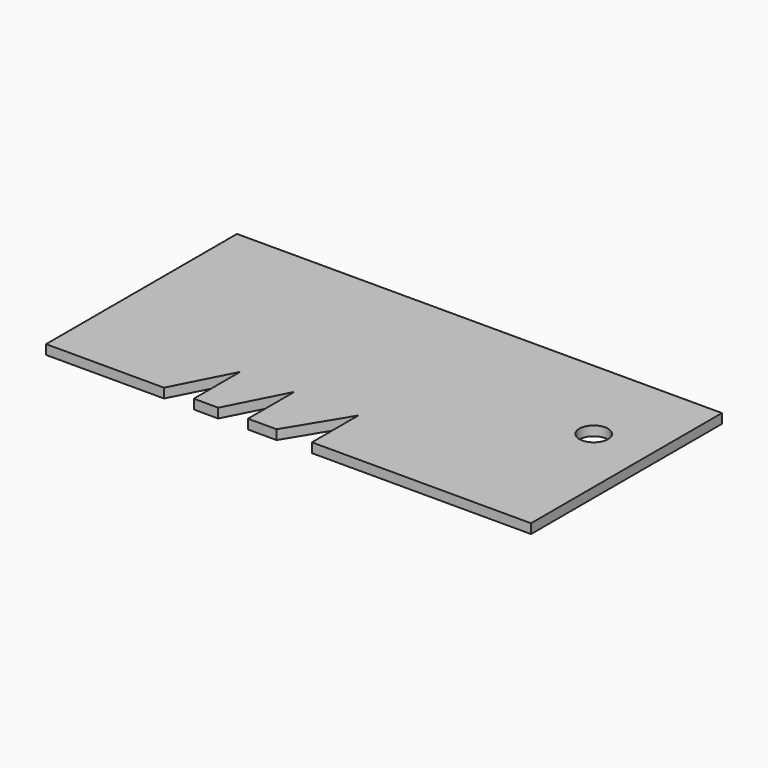
from build123d import *

# Parameters (mm, degrees)
F0_W     = 50.8
F0_H     = 25
F1_DEPTH = 1
F2_R     = 1.5
F3_DEPTH = 25
F5_DEPTH = 25


with BuildPart() as f1:
    # F0 (on Top) → F1 (new body)
    with BuildSketch(Plane.XY):
        Rectangle(F0_W, F0_H)
    extrude(amount=F1_DEPTH)

    # F2 (on face) → F3 (cut)
    with BuildSketch(Plane.XY.offset(1)):
        with Locations((19.516597, 3.062223)):
            Circle(F2_R)
    extrude(amount=-F3_DEPTH, mode=Mode.SUBTRACT)

    # F4 (on face) → F5 (cut)
    with BuildSketch(Plane.XY.offset(1)):
        Polygon((-4.253665, -6.413301), (-7.367644, -12.5), (-4.253665, -12.5), align=None)
        Polygon((2.443298, -6.413301), (-1.253027, -12.5), (2.443298, -12.5), align=None)
        Polygon((-9.930169, -6.413301), (-13.044149, -12.5), (-9.930169, -12.5), align=None)
    extrude(amount=-F5_DEPTH, mode=Mode.SUBTRACT)


solid = f1.part
